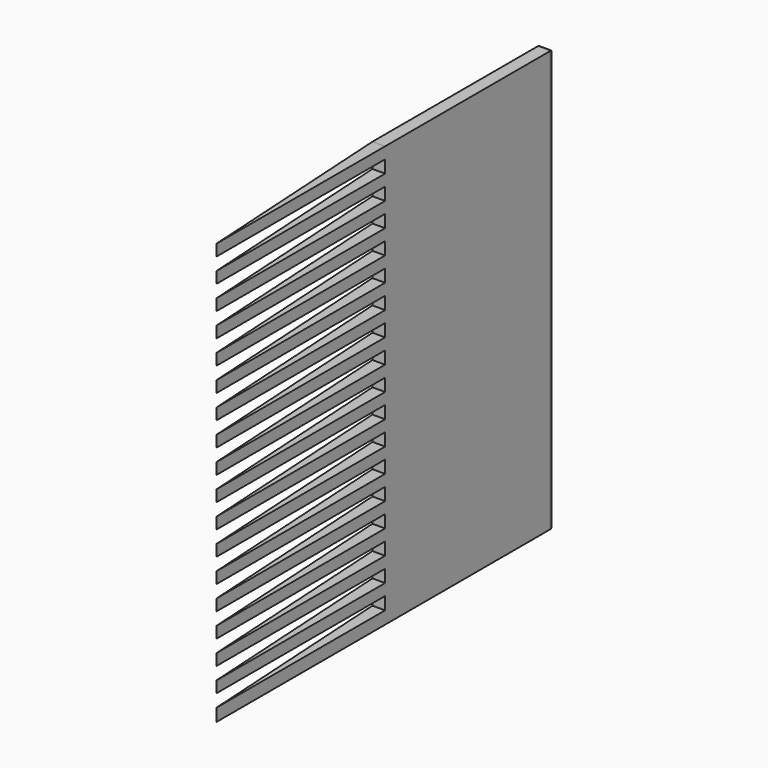
from build123d import *

# Parameters (mm, degrees)
PAD_DEPTH           = 100
SKETCH001_W         = 40
SKETCH001_H         = 3
POCKET_DEPTH        = 60
LINEARPATTERN_COUNT = 18
LINEARPATTERN_PITCH = 5.705882
FILLET_R            = 1


with BuildPart() as part:
    # Sketch → Pad (new body)
    with BuildSketch(Plane.XY):
        Polygon((-3, 0), (-3, 50), (0, 50), (0, 0), (0, -50), align=None)
    extrude(amount=PAD_DEPTH)

    # Sketch001 → Pocket (cut)
    with BuildSketch(Plane.XZ):
        with Locations((-0.275086, 4.5)):
            Rectangle(SKETCH001_W, SKETCH001_H)
    pocket = extrude(amount=POCKET_DEPTH, mode=Mode.SUBTRACT)

    # LinearPattern: Pocket ×18
    with Locations(*[(0, 0, i * LINEARPATTERN_PITCH) for i in range(1, LINEARPATTERN_COUNT)]):
        add(pocket, mode=Mode.SUBTRACT)

    # Fillet
    fillet_edges = [part.edges().sort_by_distance(p)[0] for p in [
        (-3, 50, 50),
        (0, 50, 50),
        (-1.5, 50, 0),
        (-1.5, 50, 100),
    ]]
    fillet(fillet_edges, radius=FILLET_R)


solid = part.part
